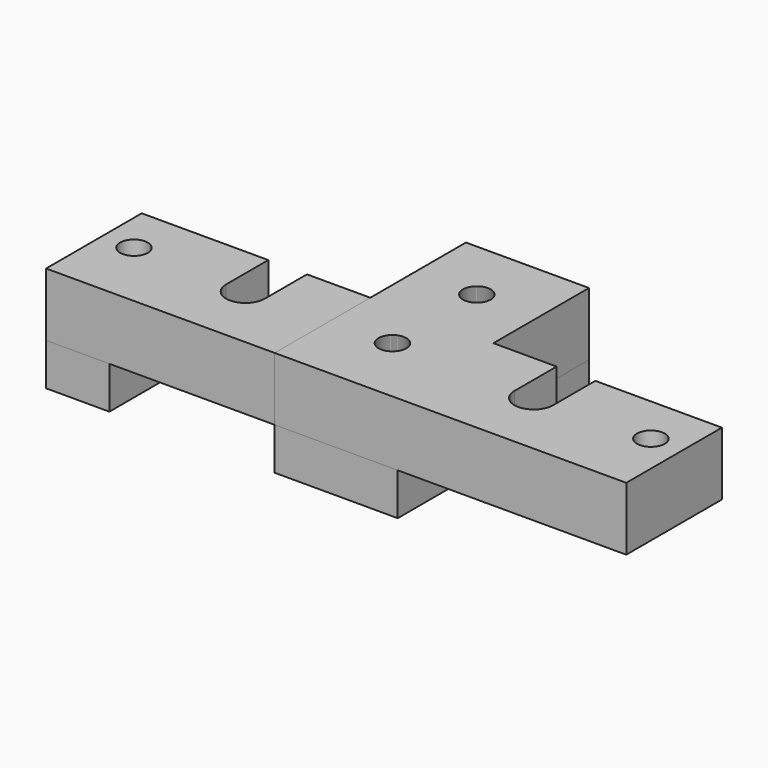
from build123d import *

# Parameters (mm, degrees)
F0_W     = 18
F0_H     = 34
F0_R     = 3.95
F1_DEPTH = 12
F2_START = 12
F2_DEPTH = 18


with BuildPart() as f1:
    # F0 (on Top) → F1 (new body)
    with BuildSketch(Plane.XY):
        with Locations((-73.5, -18)):
            Rectangle(F0_W, F0_H)
        with Locations((-73.5, -15)):
            Circle(F0_R, mode=Mode.SUBTRACT)
    extrude(amount=F1_DEPTH)


with BuildPart() as f1b:
    # F0 (on Top) → F1, piece 2 (new body)
    with BuildSketch(Plane.XY):
        Polygon((17.5, 33), (-17.5, 33), (-17.5, -1), (-17.5, -35), (17.5, -35), align=None)
        with Locations((0, -15)):
            Circle(F0_R, mode=Mode.SUBTRACT)
        with Locations((0, 15)):
            Circle(F0_R, mode=Mode.SUBTRACT)
    extrude(amount=F1_DEPTH)


with BuildPart() as f2:
    # F0 (on Top) → F2 (new body)
    with BuildSketch(Plane.XY.offset(F2_START)):
        with Locations((-73.5, -18)):
            Rectangle(F0_W, F0_H)
        with Locations((-73.5, -15)):
            Circle(F0_R, mode=Mode.SUBTRACT)
        with BuildLine():
            Line((-17.5, -35), (-17.5, -1))
            Line((-17.5, -1), (-35.5, -1))
            Line((-35.5, -1), (-35.5, -16))
            ThreePointArc((-35.5, -16), (-41, -21.5), (-46.5, -16))
            Line((-46.5, -16), (-46.5, -1))
            Line((-46.5, -1), (-64.5, -1))
            Line((-64.5, -1), (-64.5, -35))
            Line((-64.5, -35), (-17.5, -35))
        make_face()
        Polygon((17.5, 33), (-17.5, 33), (-17.5, -1), (-17.5, -35), (17.5, -35), align=None)
        with Locations((0, -15)):
            Circle(F0_R, mode=Mode.SUBTRACT)
        with Locations((0, 15)):
            Circle(F0_R, mode=Mode.SUBTRACT)
    extrude(amount=F2_DEPTH)


with BuildPart() as f3_1:
    # F3: instance of F2
    add(f2.part.mirror(Plane.YZ))


solid = Compound([f1.part, f1b.part, f2.part, f3_1.part])
